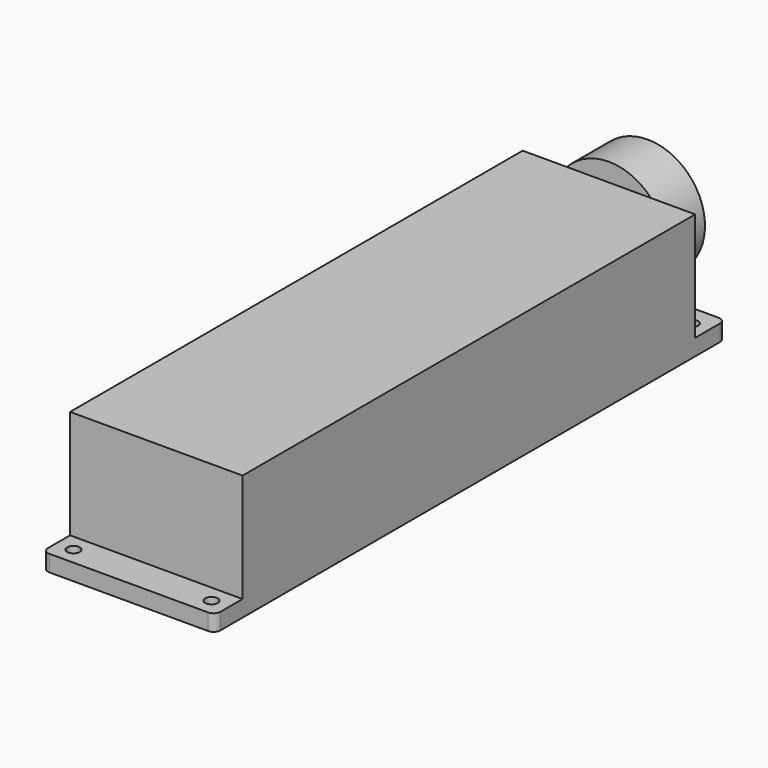
from build123d import *

# Parameters (mm, degrees)
F1_DEPTH  = 4.75
F2_W      = 50
F2_H      = 164
F3_DEPTH  = 31.5
F5_D      = 3.6576
F6_R      = 16.65
F7_DEPTH  = 14
F8_R      = 10
F9_DEPTH  = 3
F10_R     = 3.75
F11_DEPTH = 5


with BuildPart() as f1:
    # F0 (on Top) → F1 (new body)
    with BuildSketch(Plane.XY):
        with BuildLine():
            ThreePointArc((0, 2), (0.5857864376, 0.5857864376), (2, 0))
            Line((2, 0), (48, 0))
            ThreePointArc((48, 0), (49.4142135624, 0.5857864376), (50, 2))
            Line((50, 2), (50, 183))
            ThreePointArc((50, 183), (49.4142135624, 184.4142135624), (48, 185))
            Line((48, 185), (2, 185))
            ThreePointArc((2, 185), (0.5857864376, 184.4142135624), (0, 183))
            Line((0, 183), (0, 2))
        make_face()
    extrude(amount=F1_DEPTH)

    # F2 (on face) → F3 (join)
    with BuildSketch(Plane.XY.offset(4.75)):
        with Locations((25, 92)):
            Rectangle(F2_W, F2_H)
    extrude(amount=F3_DEPTH)

    # F5 (through all)
    with Locations(Plane.XY.offset(4.75)):
        with Locations((4.9975, 179.0077), (45.0025, 179.0077), (4.9975, 4.9923), (45.0025, 4.9923)):
            Hole(F5_D / 2)

    # F6 (on face) → F7 (join)
    with BuildSketch(Plane(origin=(0, 174, 0), x_dir=(-1, 0, 0), z_dir=(0, 1, 0))):
        with Locations((-25, 24.9)):
            Circle(F6_R)
    extrude(amount=F7_DEPTH)

    # F8 (on face) → F9 (join)
    with BuildSketch(Plane(origin=(0, 188, 0), x_dir=(-1, 0, 0), z_dir=(0, 1, 0))):
        with Locations((-25, 24.9)):
            Circle(F8_R)
    extrude(amount=F9_DEPTH)

    # F10 (on face) → F11 (join)
    with BuildSketch(Plane(origin=(0, 191, 0), x_dir=(-1, 0, 0), z_dir=(0, 1, 0))):
        with Locations((-25, 24.9)):
            Circle(F10_R)
    extrude(amount=F11_DEPTH)


solid = f1.part
